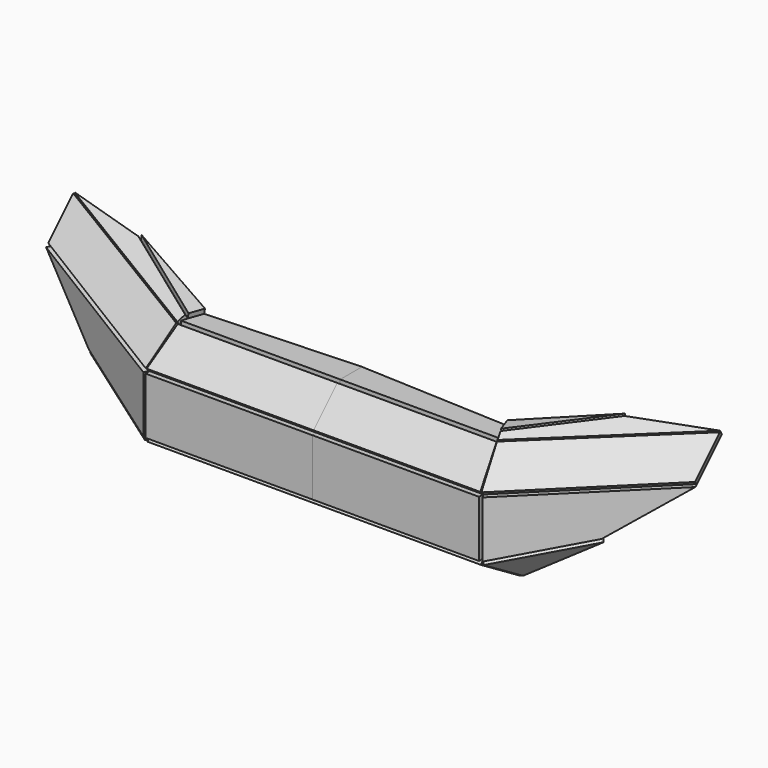
from build123d import *

# Parameters (mm, degrees)
F0_W      = 100.983351469
F0_H      = 34.2288780957
F1_DEPTH  = 3.175
F4_DEPTH  = 3.175
F8_DEPTH  = 3.175
F11_DEPTH = 3.175
F14_DEPTH = 3.175
F16_DEPTH = 3.175
F19_DEPTH = 3.175
F22_DEPTH = 3.175
F25_DEPTH = 3.175


with BuildPart() as f1:
    # F0 (on Front) → F1 (new body)
    with BuildSketch(Plane.XZ):
        with Locations((-50.4916757345, -2.1393047646)):
            Rectangle(F0_W, F0_H)
    extrude(amount=F1_DEPTH)


with BuildPart() as f4:
    # F3 (on face) → F4 (new body)
    with BuildSketch(Plane(origin=(-18.0362521801, -38.6788676202, 0), x_dir=(-0.906307787, 0.4226182617, 0), z_dir=(0.4226182617, 0.906307787, 0))):
        Polygon((195.5040961035, 33.2562392616), (91.8267977974, 14.9751342833), (91.8267977974, -19.2537438124), (149.9067097902, 0), align=None)
    extrude(amount=-F4_DEPTH)


with BuildPart() as f8:
    # F6 (on face) → F8 (new body)
    with BuildSketch(Plane(origin=(0, -7.4875671417, 7.4875671417), x_dir=(1, 0, 0), z_dir=(0, -0.7071067812, 0.7071067812))):
        Polygon((-96.5219736099, 35.9890190009), (-100.983351469, 10.5890190009), (0, 10.5890190009), (0, 35.9890190009), align=None)
    extrude(amount=F8_DEPTH)



with BuildPart() as f11:
    # F10 (on face) → F11 (new body)
    with BuildSketch(Plane(origin=(0, -8.3371156298, -14.4403078593), x_dir=(1, 0, 0), z_dir=(0, 0.5, 0.8660254038))):
        Polygon((-100.983351469, 9.6268719062), (0, 9.6268719062), (0, 35.0268719062), (-107.2531938553, 35.0268719062), align=None)
    extrude(amount=-F11_DEPTH)


with BuildPart() as f14:
    # F13 (on 3pt) → F14 (new body)
    with BuildSketch(Plane(origin=(-31.703833875, -33.9160182475, -43.4380501771), x_dir=(0.8668020812, -0.3068801846, -0.39303779), z_dir=(-0.4986523359, -0.533446579, -0.6832134332))):
        Polygon((-140.9710929063, -19.4483988721), (-87.1587201056, -37.0030169853), (-79.9254167687, -11.8602901262), (-80.244108451, -11.9506534211), align=None)
    extrude(amount=F14_DEPTH)


with BuildPart() as f16:
    # F15 (on face) → F16 (new body)
    with BuildSketch(Plane(origin=(-5.500999733, -20.318613249, 20.4246570964), x_dir=(0.9822545425, -0.1322741612, 0.1329645066), z_dir=(-0.1875526958, -0.6927487503, 0.6963642403))):
        Polygon((-96.9870953804, 11.7930904108), (-92.6653631393, 35.959390878), (-193.1496663362, 81.2757015228), (-193.1496663362, 54.6088176983), (-97.4885736897, 10.6527448878), align=None)
    extrude(amount=F16_DEPTH)


with BuildPart() as f19:
    # F18 (on face) → F19 (new body)
    with BuildSketch(Plane.XY.offset(32.9356465254)):
        Polygon((-96.5219736099, 17.9605122421), (0, 17.9605122421), (0, 34.4647429883), (-92.1888053417, 30.2764866501), align=None)
    extrude(amount=F19_DEPTH)


with BuildPart() as f8_1:
    add(f8.part)

    add(f16.part)  # F22 merges F16

    add(f19.part)  # F22 merges F19
    # F21 (on face) → F22 (join)
    with BuildSketch(Plane(origin=(-2.0549814691, -13.8844324202, 22.9998788027), x_dir=(0.9970873706, -0.0394157045, 0.065293013), z_dir=(-0.0762677868, -0.5153014503, 0.8536085988))):
        Polygon((-94.7429432184, 32.8355514866), (-93.4499802867, 37.1752105281), (-145.336791873, 68.8980892301), (-193.7324261585, 80.7128189391), (-94.7429432184, 32.2180205924), align=None)
    extrude(amount=F22_DEPTH)


with BuildPart() as f25:
    # F24 (on 3pt) → F25 (new body)
    with BuildSketch(Plane(origin=(2.9060204267, -1.0224343672, 13.8545971996), x_dir=(0.9788141351, 0.015069115, -0.2041955207), z_dir=(0.2047507971, -0.0720381212, 0.9761596284))):
        Polygon((-100.2629544328, 24.2237426686), (-97.1530981802, 32.8520256661), (-153.1184278879, 54.3049855879), align=None)
    extrude(amount=F25_DEPTH)


with BuildPart() as f26_1:
    # F26: instance of F25
    add(f25.part.mirror(Plane.YZ))


with BuildPart() as f26_2:
    # F26: instance of F4
    add(f4.part.mirror(Plane.YZ))


with BuildPart() as f26_3:
    # F26: instance of F14
    add(f14.part.mirror(Plane.YZ))


with BuildPart() as f26_4:
    # F26: instance of F11
    add(f11.part.mirror(Plane.YZ))


with BuildPart() as f26_5:
    # F26: instance of F1
    add(f1.part.mirror(Plane.YZ))


with BuildPart() as f26_6:
    # F26: instance of F8
    add(f8_1.part.mirror(Plane.YZ))


solid = Compound([f1.part, f4.part, f11.part, f14.part, f8_1.part, f25.part, f26_1.part, f26_2.part, f26_3.part, f26_4.part, f26_5.part, f26_6.part])
